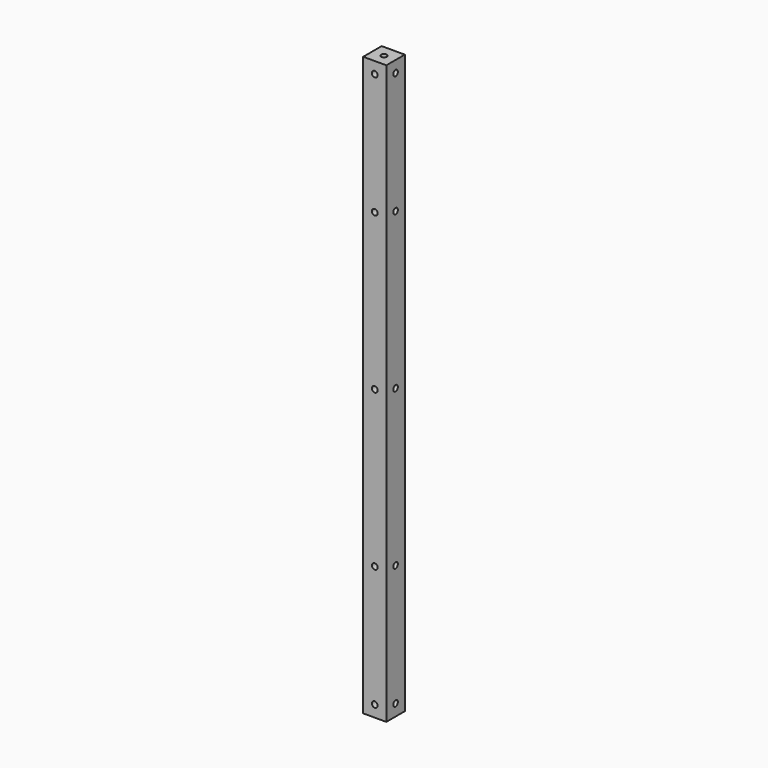
from build123d import *

# Parameters (mm, degrees)
F0_W     = 20
F0_H     = 20
F0_R     = 2.5
F1_DEPTH = 500
F2_R     = 2.5
F3_DEPTH = 20.001
F4_R     = 2.5
F5_DEPTH = 20.001


with BuildPart() as f1:
    # F0 (on Top) → F1 (new body)
    with BuildSketch(Plane.XY):
        Rectangle(F0_W, F0_H)
        Circle(F0_R, mode=Mode.SUBTRACT)
    extrude(amount=F1_DEPTH)

    # F2 (on face) → F3 (cut, through all)
    with BuildSketch(Plane.YZ.offset(10)):
        with Locations((0, 10)):
            Circle(F2_R)
        with Locations((0, 490)):
            Circle(F2_R)
        with Locations((0, 250)):
            Circle(F2_R)
        with Locations((0, 115.127)):
            Circle(F2_R)
        with Locations((0, 384.873)):
            Circle(F2_R)
    extrude(amount=-F3_DEPTH, mode=Mode.SUBTRACT)

    # F4 (on face) → F5 (cut, through all)
    with BuildSketch(Plane.XZ.offset(10)):
        with Locations((0, 250)):
            Circle(F4_R)
        with Locations((0, 490)):
            Circle(F4_R)
        with Locations((0, 10)):
            Circle(F4_R)
        with Locations((0, 115.127)):
            Circle(F4_R)
        with Locations((0, 384.873)):
            Circle(F4_R)
    extrude(amount=-F5_DEPTH, mode=Mode.SUBTRACT)


solid = f1.part
